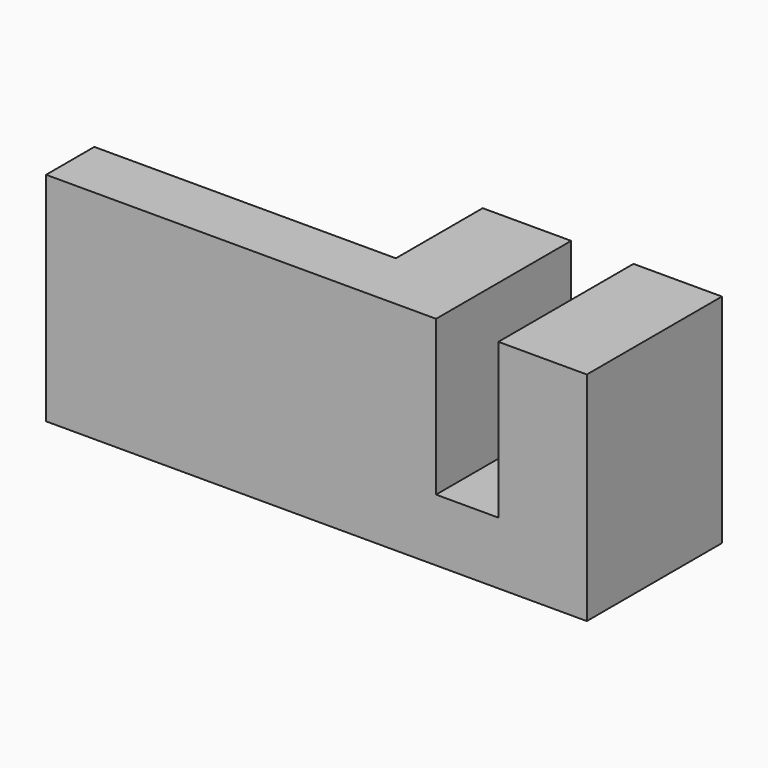
from build123d import *

# Parameters (mm, degrees)
SKETCH001_W  = 15
SKETCH001_H  = 10.8
PAD_DEPTH    = 3
PAD001_DEPTH = 8.4


with BuildPart() as part:
    # Sketch001 → Pad (new body)
    with BuildSketch(Plane.XZ):
        with Locations((-7.5, 5.4)):
            Rectangle(SKETCH001_W, SKETCH001_H)
    extrude(amount=-PAD_DEPTH)

    # Sketch → Pad001 (join)
    with BuildSketch(Plane.XZ):
        Polygon((0, 0), (0, 10.8), (4.4, 10.8), (4.4, 3.1), (7.5, 3.1), (7.5, 10.8), (11.9, 10.8), (11.9, 0), align=None)
    extrude(amount=-PAD001_DEPTH)


solid = part.part
